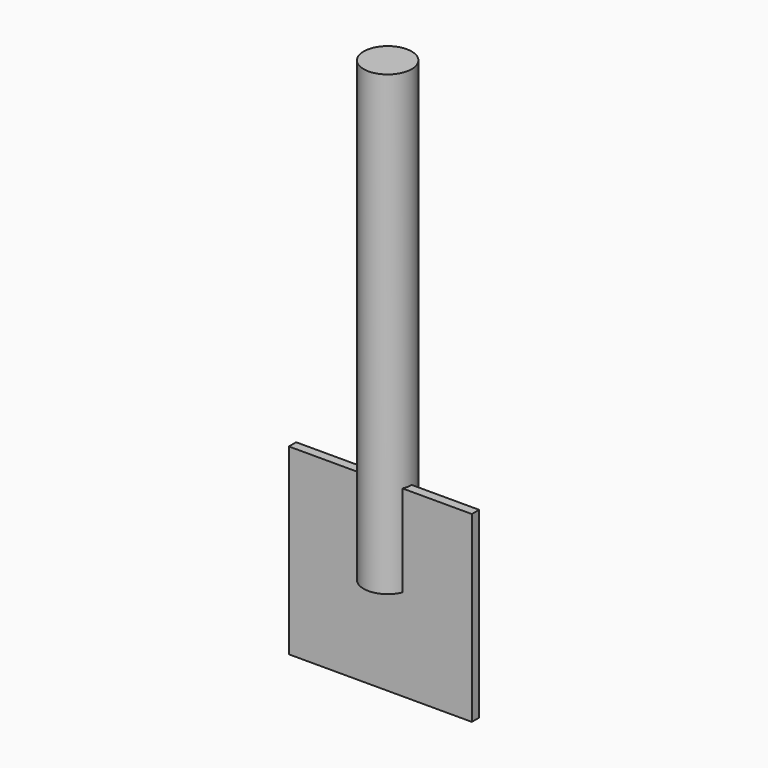
from build123d import *

# Parameters (mm, degrees)
F0_W     = 50.8
F0_H     = 50.8
F1_DEPTH = 2.54
F2_R     = 6.664268
F3_DEPTH = 127


with BuildPart() as f1:
    # F0 (on Front) → F1 (new body)
    with BuildSketch(Plane.XZ):
        Rectangle(F0_W, F0_H)
    extrude(amount=F1_DEPTH)

    # F2 (on Top) → F3 (join)
    with BuildSketch(Plane.XY):
        Circle(F2_R)
    extrude(amount=F3_DEPTH)


solid = f1.part
